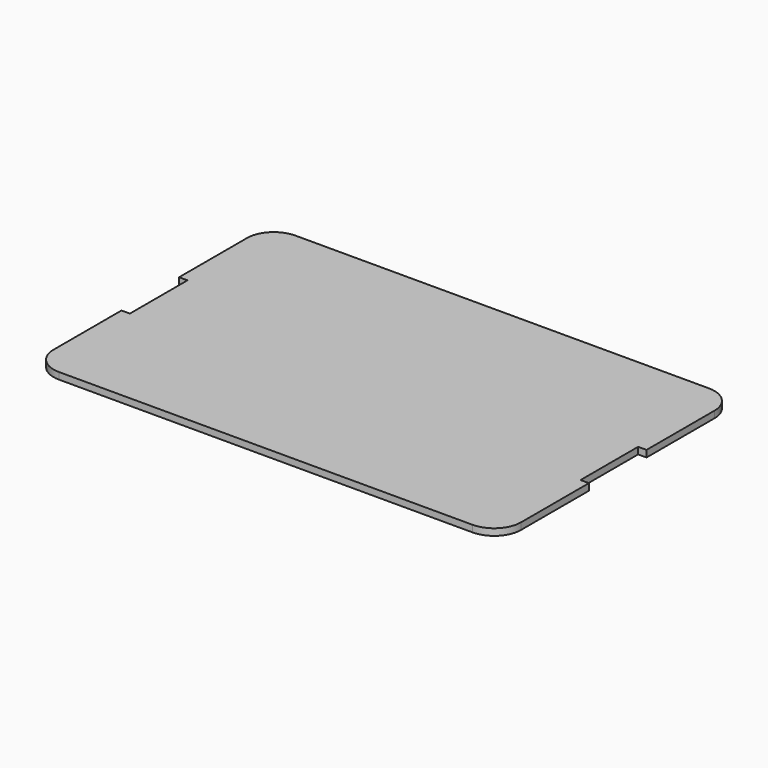
from build123d import *

# Parameters (mm, degrees)
F1_DEPTH = 1.27


with BuildPart() as f1:
    # F0 (on Top) → F1 (new body)
    with BuildSketch(Plane.XY):
        with BuildLine():
            ThreePointArc((44.196, 22.86), (42.708102, 26.452102), (39.116, 27.94))
            Line((39.116, 27.94), (-39.116, 27.94))
            ThreePointArc((-39.116, 27.94), (-42.708102, 26.452102), (-44.196, 22.86))
            Line((-44.196, 22.86), (-44.196, 6.8072))
            Line((-44.196, 6.8072), (-43.4975, 6.8072))
            Line((-43.4975, 6.8072), (-42.799, 6.8072))
            Line((-42.799, 6.8072), (-42.6085, 6.8072))
            Line((-42.6085, 6.8072), (-42.6085, -6.8072))
            Line((-42.6085, -6.8072), (-42.799, -6.8072))
            Line((-42.799, -6.8072), (-43.4975, -6.8072))
            Line((-43.4975, -6.8072), (-44.196, -6.8072))
            Line((-44.196, -6.8072), (-44.196, -22.86))
            ThreePointArc((-44.196, -22.86), (-42.708102, -26.452102), (-39.116, -27.94))
            Line((-39.116, -27.94), (39.116, -27.94))
            ThreePointArc((39.116, -27.94), (42.708102, -26.452102), (44.196, -22.86))
            Line((44.196, -22.86), (44.196, -6.8072))
            Line((44.196, -6.8072), (43.4975, -6.8072))
            Line((43.4975, -6.8072), (42.799, -6.8072))
            Line((42.799, -6.8072), (42.6085, -6.8072))
            Line((42.6085, -6.8072), (42.6085, 6.8072))
            Line((42.6085, 6.8072), (42.799, 6.8072))
            Line((42.799, 6.8072), (43.4975, 6.8072))
            Line((43.4975, 6.8072), (44.196, 6.8072))
            Line((44.196, 6.8072), (44.196, 22.86))
        make_face()
    extrude(amount=F1_DEPTH)


solid = f1.part
